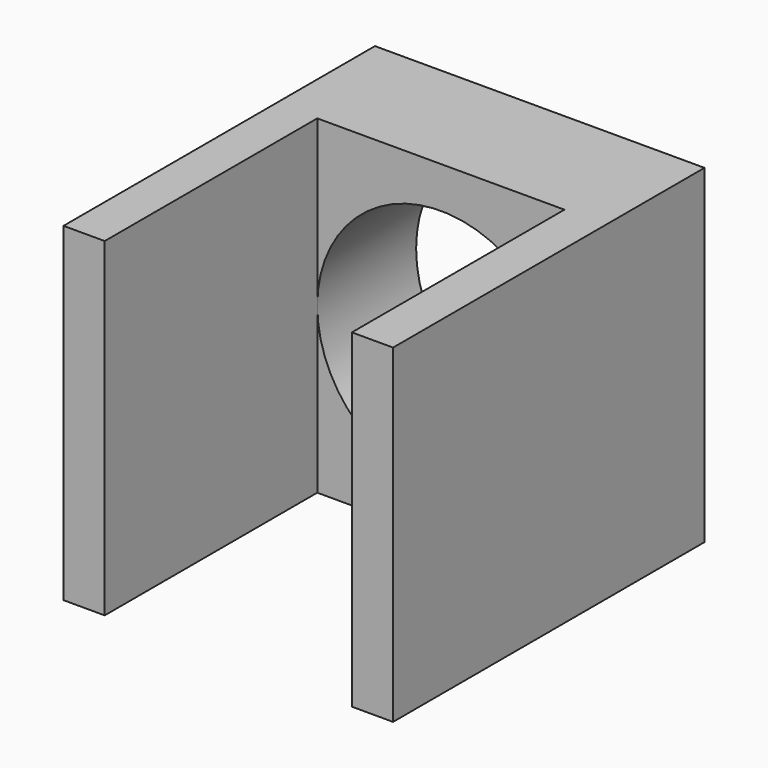
from build123d import *

# Parameters (mm, degrees)
F0_W     = 8
F0_H     = 8
F0_R     = 3
F1_DEPTH = 3
F2_W     = 1
F2_H     = 8
F3_DEPTH = 6.45


with BuildPart() as f1:
    # F0 (on Front) → F1 (new body)
    with BuildSketch(Plane.XZ):
        Rectangle(F0_W, F0_H)
        Circle(F0_R, mode=Mode.SUBTRACT)
    extrude(amount=F1_DEPTH)

    # F2 (on face) → F3 (join)
    with BuildSketch(Plane.XZ.offset(3)):
        with Locations((-3.5, 0)):
            Rectangle(F2_W, F2_H)
        with Locations((3.5, 0)):
            Rectangle(F2_W, F2_H)
    extrude(amount=F3_DEPTH)


solid = f1.part
